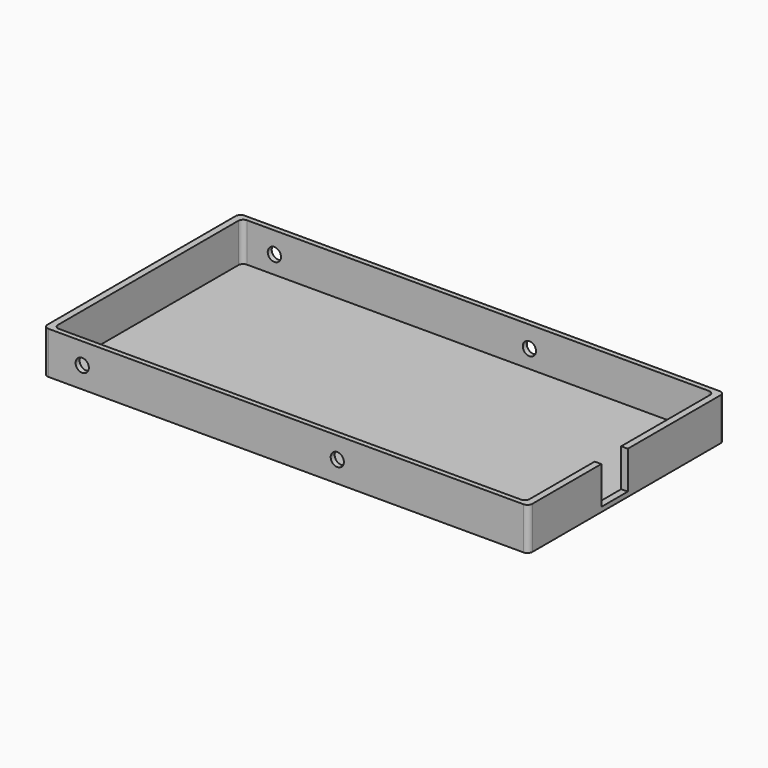
from build123d import *

# Parameters (mm, degrees)
CYLINDER_R       = 2
CYLINDER_DEPTH   = 100
ARRAY002_X_COUNT = 2
ARRAY002_X_PITCH = 77
BOX009_W         = 30
BOX009_H         = 10
BOX009_DEPTH     = 14.5
BOX001_W         = 142.4
BOX001_H         = 71
BOX001_DEPTH     = 13.3
BOX_W            = 146.4
BOX_H            = 74
BOX_DEPTH        = 12.8
FILLET_R         = 1.5


with BuildPart() as obj1:
    # Cylinder → Cylinder (new body)
    with BuildSketch(Plane(origin=(9.5, -16, 3.5), x_dir=(1, 0, 0), z_dir=(0, 1, 0))):
        Circle(CYLINDER_R)
    extrude(amount=CYLINDER_DEPTH)

    # Array002 X: obj1_2


with BuildPart() as obj1_1:
    add(obj1.part)
    with Locations(*[(i * ARRAY002_X_PITCH, 0, 0) for i in range(1, ARRAY002_X_COUNT)]):
        add(obj1.part)


with BuildPart() as obj1_2:
    # Body placement: moved
    add(obj1_1.part.moved(Location((2.2, 0, 2.9))))


with BuildPart() as usb_extent_hole:
    # Box009 → Box009 (new body)
    with BuildSketch(Plane(origin=(131, 27.5, 1.4), x_dir=(1, 0, 0), z_dir=(0, 0, 1))):
        with Locations((15, 5)):
            Rectangle(BOX009_W, BOX009_H)
    extrude(amount=BOX009_DEPTH)


with BuildPart() as bottom_body_hole_fusion:
    # Box001 → Box001 (new body)
    with BuildSketch(Plane(origin=(2, 1.5, 1), x_dir=(1, 0, 0), z_dir=(0, 0, 1))):
        with Locations((71.2, 35.5)):
            Rectangle(BOX001_W, BOX001_H)
    extrude(amount=BOX001_DEPTH)

    # Fusion: union obj1, usb extent hole
    add(obj1_2.part)
    add(usb_extent_hole.part)


with BuildPart() as bottom_fillet:
    # Box → Box (new body)
    with BuildSketch(Plane.XY):
        with Locations((73.2, 37)):
            Rectangle(BOX_W, BOX_H)
    extrude(amount=BOX_DEPTH)

    # Cut: cut bottom body hole fusion
    add(bottom_body_hole_fusion.part, mode=Mode.SUBTRACT)

    # Fillet
    fillet_edges = [bottom_fillet.edges().sort_by_distance(p)[0] for p in [
        (0, 0, 6.4),
        (0, 74, 6.4),
        (146.4, 0, 6.4),
        (146.4, 74, 6.4),
        (144.4, 72.5, 6.9),
        (144.4, 1.5, 6.9),
        (2, 72.5, 6.9),
        (2, 1.5, 6.9),
    ]]
    fillet(fillet_edges, radius=FILLET_R)


solid = bottom_fillet.part
